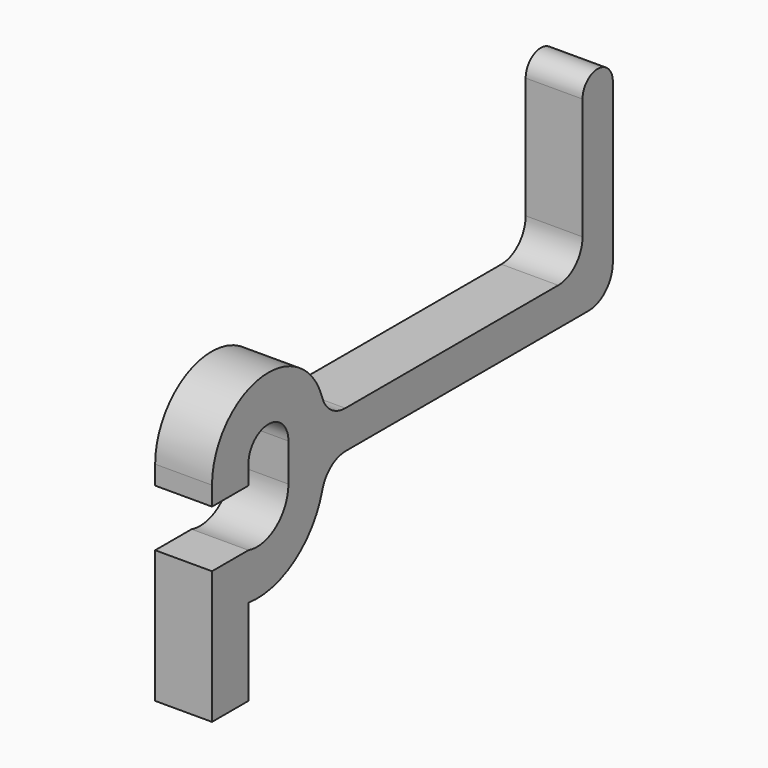
from build123d import *

# Parameters (mm, degrees)
F0_W     = 6.35
F0_H     = 25.4
F1_DEPTH = 4.7625
F2_R     = 5.08


with BuildPart() as f1:
    # F0 (on Right) → F1 (new body, symmetric)
    with BuildSketch(Plane.YZ):
        with BuildLine():
            Line((-21.9306305993, 0.7620182931), (-21.9306305993, 3.9370182931))
            ThreePointArc((-21.9306305993, 3.9370182931), (-17.7396305993, 8.1280182931), (-13.5486305993, 3.9370182931))
            Line((-13.5486305993, 3.9370182931), (-13.5486305993, -2.4129817069))
            ThreePointArc((-13.5486305993, -2.4129817069), (-16.1617053324, -7.6708430592), (-21.9306305993, -8.7629817069))
            Line((-21.9306305993, -8.7629817069), (-21.9306305993, -16.5166889564))
            ThreePointArc((-21.9306305993, -16.5166889564), (-10.7450064328, -13.0780949526), (-5.9286305993, -2.4129817069))
            Line((-5.9286305993, -2.4129817069), (-5.9286305993, 3.9370182931))
            ThreePointArc((-5.9286305993, 3.9370182931), (-17.7396305993, 15.7480182931), (-29.5506305993, 3.9370182931))
            Line((-29.5506305993, 3.9370182931), (-29.5506305993, 0.764733142))
            Line((-29.5506305993, 0.764733142), (-21.9306305993, 0.7620182931))
        make_face()
        Polygon((-21.9306305993, -16.5166889564), (-21.9306305993, -8.7629817069), (-29.5506305993, -8.7629817069), (-29.5506305993, -30.9879817069), (-21.9306305993, -30.9879817069), align=None)
        Polygon((48.0463694007, 3.9370182931), (-5.9286305993, 3.9370182931), (-5.9286305993, -2.4129817069), (54.3963694007, -2.4129817069), (54.3963694007, 3.9370182931), align=None)
        with Locations((51.2213694007, 16.6370182931)):
            Rectangle(F0_W, F0_H)
        with BuildLine():
            ThreePointArc((54.3963694007, 29.3370182931), (51.2213694007, 32.5120182931), (48.0463694007, 29.3370182931))
            Line((48.0463694007, 29.3370182931), (54.3963694007, 29.3370182931))
        make_face()
    extrude(amount=F1_DEPTH, both=True)

    # F2
    f2_edges = [f1.edges().sort_by_distance(p)[0] for p in [
        (0, 54.396369, -2.412982),
        (0, 48.046369, 3.937018),
        (0, -5.928631, 3.937018),
        (0, -5.928631, -2.412982),
    ]]
    fillet(f2_edges, radius=F2_R)


solid = f1.part
